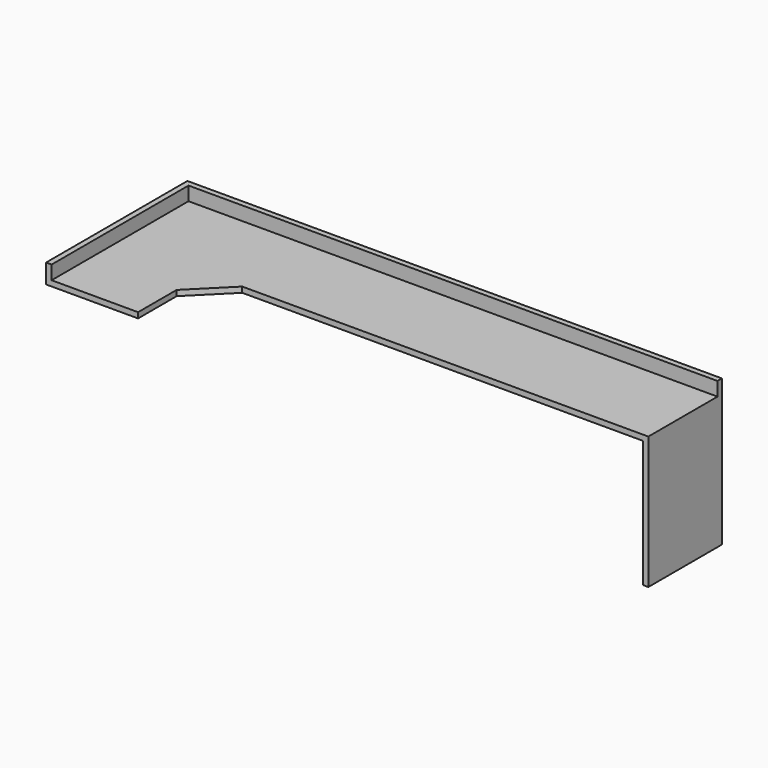
from build123d import *

# Parameters (mm, degrees)
F0_W     = 38.1
F0_H     = 635
F1_DEPTH = 38.1
F2_DEPTH = 876.3
F4_DEPTH = 95.25


with BuildPart() as f1:
    # F0 (on Top) → F1 (new body)
    with BuildSketch(Plane.XY):
        Polygon((1825.625, -317.5), (1825.625, 317.5), (-1825.625, 317.5), (-1825.625, -317.5), (-1190.625, -317.5), (-939.177829, -317.5), align=None)
        Polygon((-1190.625, -317.5), (-1825.625, -317.5), (-1825.625, -901.7), (-1190.625, -901.7), (-1190.625, -568.947171), align=None)
        with Locations((1844.675, 0)):
            Rectangle(F0_W, F0_H)
        Polygon((-1190.625, -568.947171), (-939.177829, -317.5), (-1190.625, -317.5), align=None)
    extrude(amount=F1_DEPTH)

    # F0 (on Top) → F2 (join)
    with BuildSketch(Plane.XY):
        with Locations((1844.675, 0)):
            Rectangle(F0_W, F0_H)
    extrude(amount=-F2_DEPTH)

    # F3 (on face) → F4 (join)
    with BuildSketch(Plane.XY.offset(38.1)):
        Polygon((-1825.625, 279.4), (-1825.625, -901.7), (-1787.525, -901.7), (-1787.525, 279.4), (1863.725, 279.4), (1863.725, 317.5), (-1787.525, 317.5), (-1825.625, 317.5), align=None)
    extrude(amount=F4_DEPTH)


solid = f1.part
